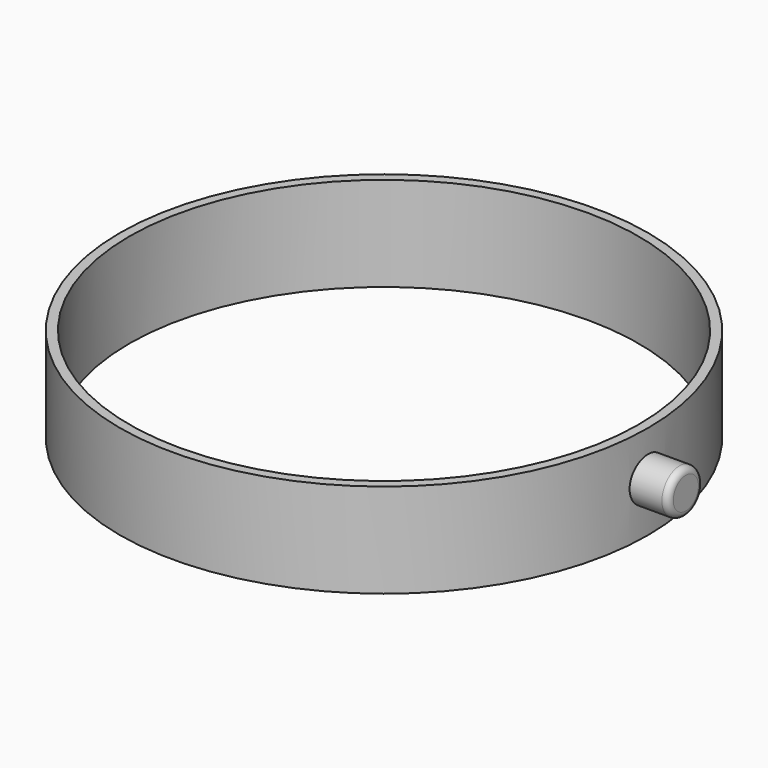
from build123d import *

# Parameters (mm, degrees)
F0_R     = 42
F0_R_2   = 40.5
F1_DEPTH = 15
F3_R     = 3.5
F4_DEPTH = 7
F5_R     = 1


with BuildPart() as f1:
    # F0 (on Top) → F1 (new body)
    with BuildSketch(Plane.XY):
        Circle(F0_R)
        Circle(F0_R_2, mode=Mode.SUBTRACT)
    extrude(amount=F1_DEPTH)

    # F3 (on offset) → F4 (join)
    with BuildSketch(Plane.YZ.offset(41)):
        with Locations((0, 7.840633)):
            Circle(F3_R)
    extrude(amount=F4_DEPTH)

    # F5
    f5_edges = [f1.edges().sort_by_distance(p)[0] for p in [
        (48, -3.5, 7.840633),
    ]]
    fillet(f5_edges, radius=F5_R)


solid = f1.part
